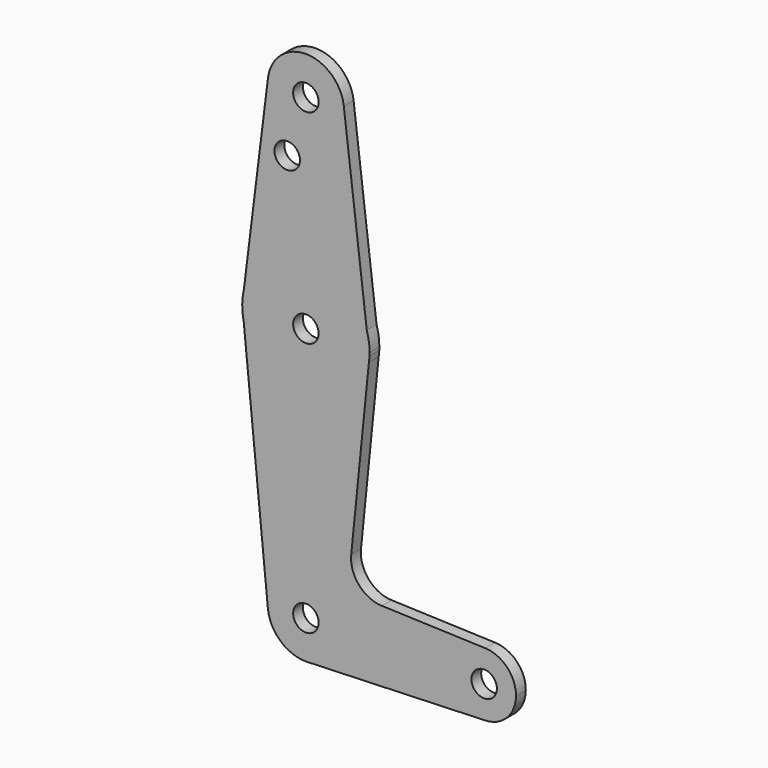
from build123d import *

# Parameters (mm, degrees)
F0_R     = 3.175
F1_DEPTH = 3.048


with BuildPart() as f1:
    # F0 (on Front) → F1 (new body)
    with BuildSketch(Plane.XZ):
        with BuildLine():
            ThreePointArc((-9.458734821, 115.4505678143), (-0.5943706801, 104.7699175758), (9.5186603509, 114.2767490409))
            ThreePointArc((9.5186603509, 114.2767490409), (9.501381573, 114.8502140909), (9.4496079281, 115.4215985583))
            ThreePointArc((9.4496079281, 115.4215985583), (0.0082534776, 123.8017378619), (-9.458734821, 115.4505678143))
        make_face()
        with Locations((-0.0063396491, 114.2767490409)):
            Circle(F0_R, mode=Mode.SUBTRACT)
        with BuildLine():
            ThreePointArc((9.4496079281, 115.4215985583), (9.501381573, 114.8502140909), (9.5186603509, 114.2767490409))
            ThreePointArc((9.5186603509, 114.2767490409), (-0.5943706801, 104.7699175758), (-9.458734821, 115.4505678143))
            Line((-9.458734821, 115.4505678143), (-15.4637810738, 67.0938099476))
            ThreePointArc((-15.4637810738, 67.0938099476), (-0.5318907081, 79.3430473201), (15.1778611892, 68.1087755846))
            Line((15.1778611892, 68.1087755846), (9.4496079281, 115.4215985583))
        make_face()
        with Locations((-4.6574089597, 99.9779293593)):
            Circle(F0_R, mode=Mode.SUBTRACT)
        with BuildLine():
            Line((15.8445527295, 62.6022001271), (15.1778611892, 68.1087755846))
            ThreePointArc((15.1778611892, 68.1087755846), (-0.5318907081, 79.3430473201), (-15.4637810738, 67.0938099476))
            Line((-15.4637810738, 67.0938099476), (-15.8789821823, 63.7503253806))
            Line((-15.8789821823, 63.7503253806), (-15.5185168612, 60.1021404501))
            ThreePointArc((-15.5185168612, 60.1021404501), (0.5331925316, 47.6109200356), (15.6992506153, 61.1637294888))
            Line((15.6992506153, 61.1637294888), (15.8445527295, 62.6022001271))
        make_face()
        with Locations((-0.0063396491, 63.4767490409)):
            Circle(F0_R, mode=Mode.SUBTRACT)
        with BuildLine():
            ThreePointArc((15.8686603509, 63.4767490409), (15.6950108232, 65.8183763268), (15.1778611892, 68.1087755846))
            Line((15.1778611892, 68.1087755846), (15.8445527295, 62.6022001271))
            ThreePointArc((15.8445527295, 62.6022001271), (15.8626323011, 63.0393084792), (15.8686603509, 63.4767490409))
        make_face()
        with BuildLine():
            Line((-15.8789821823, 63.7503253806), (-15.4637810738, 67.0938099476))
            ThreePointArc((-15.4637810738, 67.0938099476), (-15.7603316024, 65.4331136633), (-15.8789821823, 63.7503253806))
        make_face()
        with BuildLine():
            ThreePointArc((15.6992506153, 61.1637294888), (15.7882859762, 61.8813098044), (15.8445527295, 62.6022001271))
            Line((15.8445527295, 62.6022001271), (15.6992506153, 61.1637294888))
        make_face()
        with BuildLine():
            Line((-15.5185168612, 60.1021404501), (-15.8789821823, 63.7503253806))
            ThreePointArc((-15.8789821823, 63.7503253806), (-15.8044104469, 61.915792902), (-15.5185168612, 60.1021404501))
        make_face()
        with BuildLine():
            Line((11.2959837542, 17.5720025156), (15.6992506153, 61.1637294888))
            ThreePointArc((15.6992506153, 61.1637294888), (0.5331925316, 47.6109200356), (-15.5185168612, 60.1021404501))
            Line((-15.5185168612, 60.1021404501), (-9.4851821278, -0.9598246424))
            ThreePointArc((-9.4851821278, -0.9598246424), (-0.4751948456, 9.4902026622), (9.5186603509, -0.0232509591))
            ThreePointArc((9.5186603509, -0.0232509591), (6.8942541036, -6.5888758997), (0.4672312989, -9.5364710006))
            Line((0.4672312989, -9.5364710006), (44.7269748913, -7.9556931506))
            ThreePointArc((44.7269748913, -7.9556931506), (36.506160364, -0.0237058809), (44.7260656255, 7.9092236555))
            Line((44.7260656255, 7.9092236555), (18.9230751443, 8.827839972))
            ThreePointArc((18.9230751443, 8.827839972), (13.2146376914, 11.547102859), (11.2959837542, 17.5720025156))
        make_face()
        with BuildLine():
            ThreePointArc((9.5186603509, -0.0232509591), (-0.4751948456, 9.4902026622), (-9.4851821278, -0.9598246424))
            ThreePointArc((-9.4851821278, -0.9598246424), (-6.3250107045, -7.1506643114), (0.1999772985, -9.5460162254))
            Line((0.1999772985, -9.5460162254), (0.4672312989, -9.5364710006))
            ThreePointArc((0.4672312989, -9.5364710006), (6.8942541036, -6.5888758997), (9.5186603509, -0.0232509591))
        make_face()
        with Locations((-0.0063396491, -0.0232509591)):
            Circle(F0_R, mode=Mode.SUBTRACT)
        with BuildLine():
            Line((0.4672312989, -9.5364710006), (0.1999772985, -9.5460162254))
            ThreePointArc((0.1999772985, -9.5460162254), (0.3336377994, -9.5421815889), (0.4672312989, -9.5364710006))
        make_face()
        with BuildLine():
            ThreePointArc((52.3811603509, -0.0232509591), (50.1552931348, 5.4886595256), (44.7260656255, 7.9092236555))
            ThreePointArc((44.7260656255, 7.9092236555), (36.506160364, -0.0237058809), (44.7269748913, -7.9556931506))
            ThreePointArc((44.7269748913, -7.9556931506), (50.1556090295, -5.534834084), (52.3811603509, -0.0232509591))
        make_face()
        with Locations((44.4436603509, -0.0232509591)):
            Circle(F0_R, mode=Mode.SUBTRACT)
    extrude(amount=F1_DEPTH)


solid = f1.part
